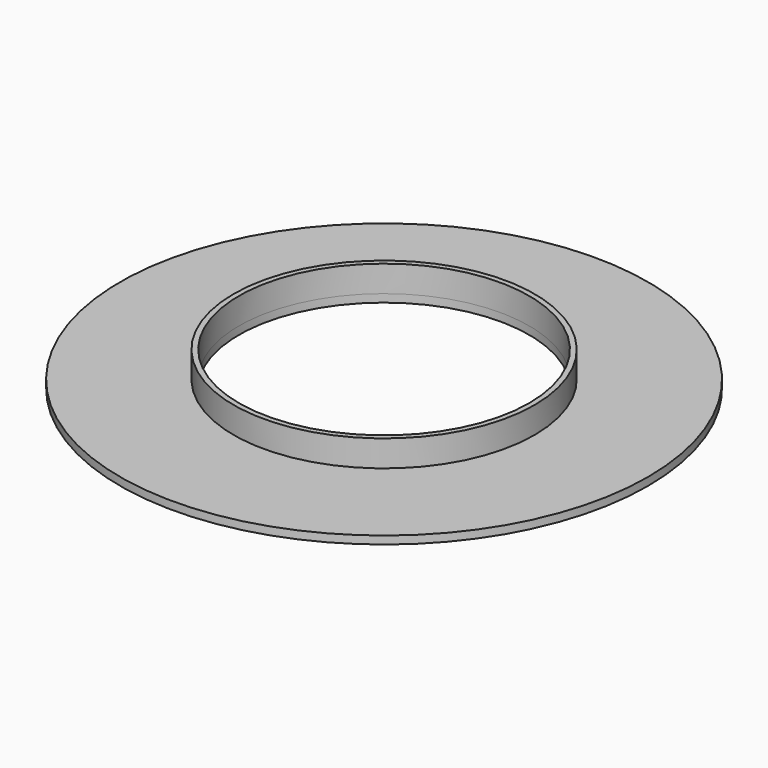
from build123d import *

# Parameters (mm, degrees)
F0_R     = 100
F1_DEPTH = 3
F2_R     = 55
F3_DEPTH = 25
F4_R     = 57
F4_R_2   = 55
F5_DEPTH = 10


with BuildPart() as f1:
    # F0 (on Top) → F1 (new body)
    with BuildSketch(Plane.XY):
        Circle(F0_R)
    extrude(amount=F1_DEPTH)

    # F2 (on face) → F3 (cut)
    with BuildSketch(Plane.XY.offset(3)):
        Circle(F2_R)
    extrude(amount=-F3_DEPTH, mode=Mode.SUBTRACT)

    # F4 (on face) → F5 (join)
    with BuildSketch(Plane.XY.offset(3)):
        Circle(F4_R)
        Circle(F4_R_2, mode=Mode.SUBTRACT)
    extrude(amount=F5_DEPTH)


solid = f1.part
